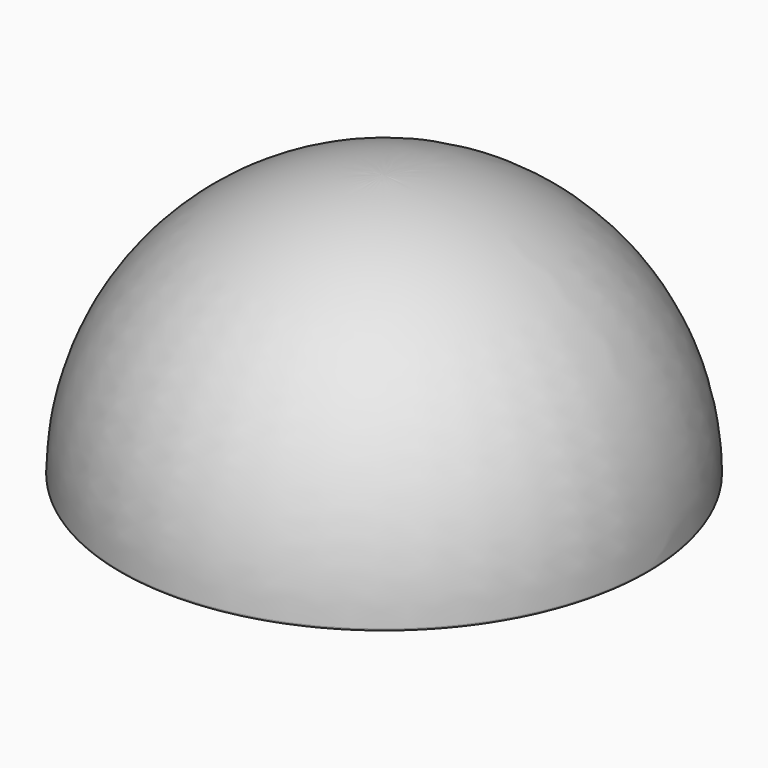
from build123d import *

# Parameters (mm, degrees)
F2_R = 1


with BuildPart() as f1:
    # F0 (on Front) → F1 (revolve)
    with BuildSketch(Plane.XZ):
        with BuildLine():
            ThreePointArc((125, 0), (88.388348, 88.388348), (0, 125))
            Line((0, 125), (0, 115))
            ThreePointArc((0, 115), (81.31728, 81.31728), (115, 0))
            Line((115, 0), (125, 0))
        make_face()
    revolve(axis=Axis((0, 0, 64.393066), (0, 0, -1)))

    # F2
    f2_edges = [f1.edges().sort_by_distance(p)[0] for p in [
        (-125, 0, 0),
        (-115, 0, 0),
    ]]
    fillet(f2_edges, radius=F2_R)


solid = f1.part
